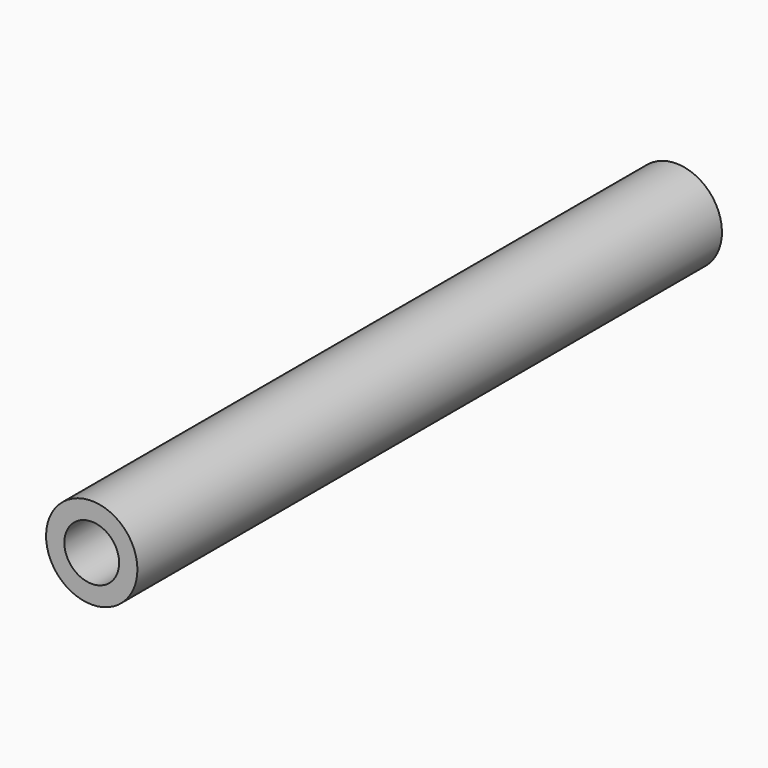
from build123d import *

# Parameters (mm, degrees)
CYLINDER001_R           = 1.5
CYLINDER001_DEPTH       = 44
CYLINDER001_PITCH_ANGLE = 90
CYLINDER_R              = 2.5
CYLINDER_DEPTH          = 40
CYLINDER_PITCH_ANGLE    = 90
CUT006_PLACEMENT_ANGLE  = 90


with BuildPart() as cilindro001:
    # Cylinder001 → Cylinder001 (new body)
    with BuildSketch(Plane.XY):
        Circle(CYLINDER001_R)
    extrude(amount=CYLINDER001_DEPTH)


with BuildPart() as cilindro001_1:
    # Cylinder001 pitch: moved
    add(cilindro001.part.rotate(Axis((0, 0, 0), (0, 1, 0)), CYLINDER001_PITCH_ANGLE))


with BuildPart() as cilindro001_2:
    # Cylinder001 placement: moved
    add(cilindro001_1.part.moved(Location((-2, 0, 0))))


with BuildPart() as soporte007:
    # Cylinder → Cylinder (new body)
    with BuildSketch(Plane.XY):
        Circle(CYLINDER_R)
    extrude(amount=CYLINDER_DEPTH)


with BuildPart() as soporte007_1:
    # Cylinder pitch: moved
    add(soporte007.part.rotate(Axis((0, 0, 0), (0, 1, 0)), CYLINDER_PITCH_ANGLE))


with BuildPart() as soporte007_2:
    # Cylinder placement: moved
    add(soporte007_1.part)

    # Cut006: cut Cilindro001
    add(cilindro001_2.part, mode=Mode.SUBTRACT)


with BuildPart() as soporte007_3:
    # Cut006 placement: moved
    add(soporte007_2.part.moved(Location((-65.5, 125, 123.5))).rotate(Axis((-65.5, 125, 123.5), (0, 0, 1)), CUT006_PLACEMENT_ANGLE))


solid = soporte007_3.part
